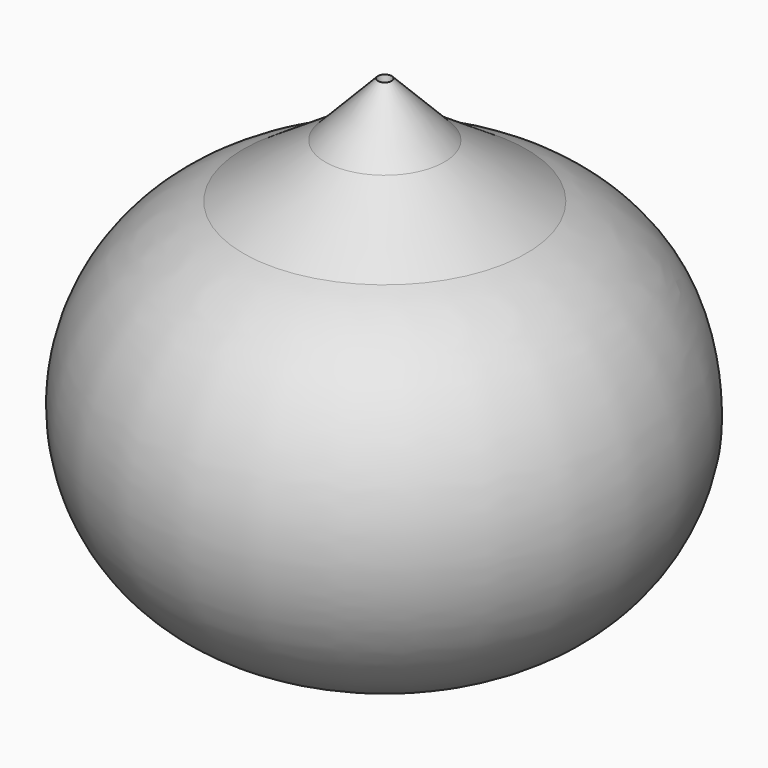
from build123d import *

# Parameters (mm, degrees)
F3_DEPTH = 66.802


with BuildPart() as f1:
    # F0 (on Front) → F1 (revolve)
    with BuildSketch(Plane.XZ):
        with BuildLine():
            Line((-7.864277, 19.228341), (-18.697525, 12.112729))
            ThreePointArc((-18.697525, 12.112729), (-33.192648, -20.942061), (0, -35.118658))
            Line((0, -35.118658), (0, 11.932925))
            Line((0, 11.932925), (0, 20.416464))
            Line((0, 20.416464), (-0.904747, 26.405055))
            Line((-0.904747, 26.405055), (-7.864277, 19.228341))
        make_face()
    revolve(axis=Axis((0, 0, -11.592867), (0, 0, -1)))

    # F2 (on Front) → F3 (cut)
    with BuildSketch(Plane.XZ):
        with BuildLine():
            add(Edge.make_bspline(
                [(0, -30.835848), (29.393589, -30.835848), (29.393589, -12.559526)],
                knots=[4.712389, 4.712389, 4.712389, 6.283185, 6.283185, 6.283185], degree=2, weights=[1, 0.707107, 1]))
            add(Edge.make_bspline(
                [(29.393589, -12.559526), (29.393589, 5.716797), (0, 5.716797)],
                knots=[0, 0, 0, 1.570796, 1.570796, 1.570796], degree=2, weights=[1, 0.707107, 1]))
            Line((0, 5.716797), (0, -30.835848))
        make_face()
        with BuildLine():
            Line((0, -30.835848), (0, 5.716797))
            add(Edge.make_bspline(
                [(0, 5.716797), (-29.393589, 5.716797), (-29.393589, -12.559526), (-29.393589, -30.835848), (0, -30.835848)],
                knots=[1.570796, 1.570796, 1.570796, 3.141593, 3.141593, 4.712389, 4.712389, 4.712389], degree=2, weights=[1, 0.707107, 1, 0.707107, 1]))
        make_face()
    extrude(amount=-F3_DEPTH, mode=Mode.SUBTRACT)


solid = f1.part
